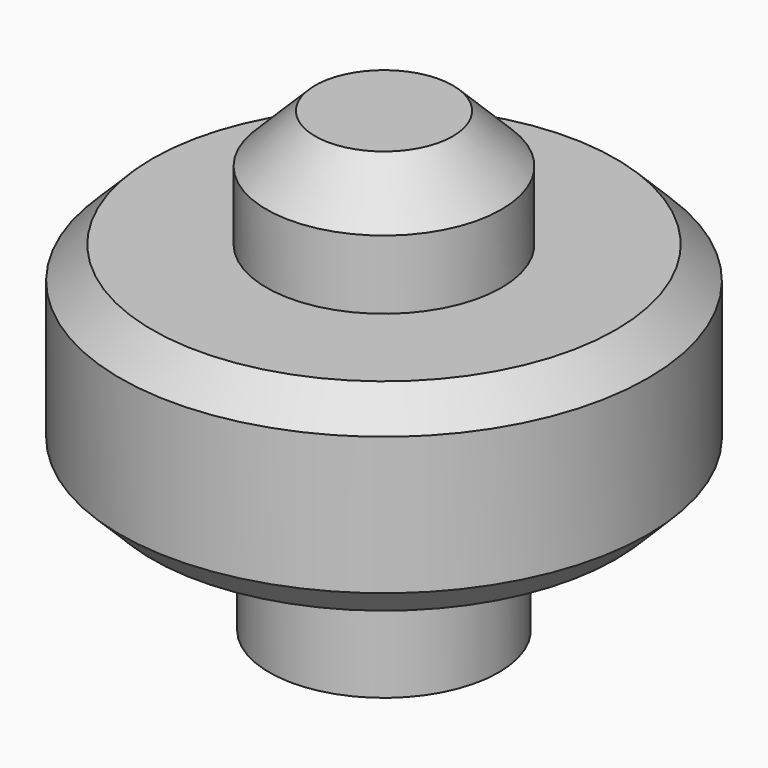
from build123d import *


with BuildPart() as part:
    # Sketch → Revolution (revolve)
    with BuildSketch(Plane.XZ):
        Polygon((0, 19.92132), (3, 19.92132), (5.12132, 17.8), (5.12132, 14.8), (10.1, 14.8), (11.5, 13.4), (11.5, 7.4), (10.1, 6), (5, 6), (5, 0), (0, 0), align=None)
    revolve(axis=Axis((0, 0, 0), (0, 0, 1)))


solid = part.part
